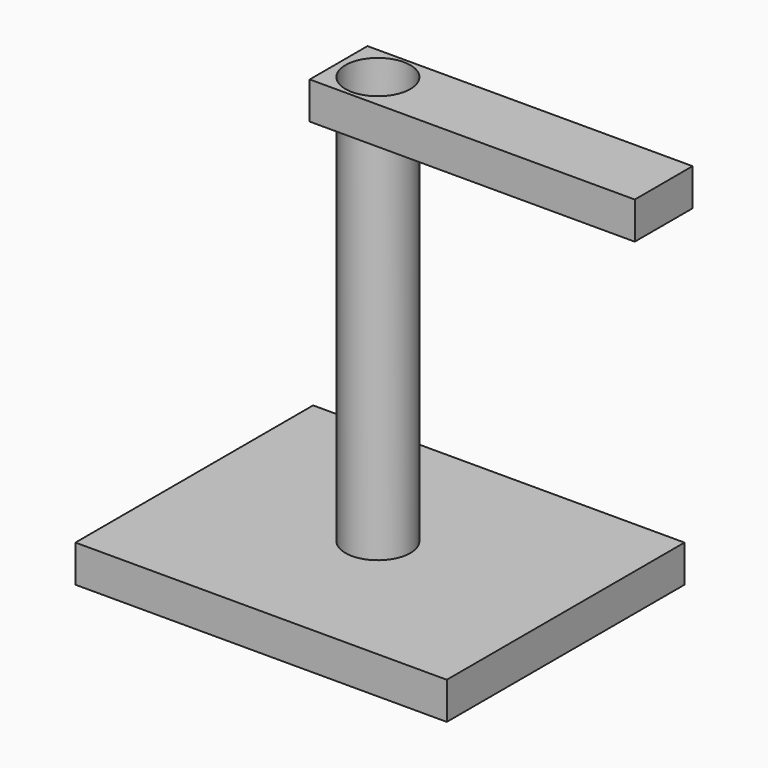
from build123d import *

# Parameters (mm, degrees)
F0_W     = 127
F0_H     = 101.6
F1_DEPTH = 12.7
F2_R     = 11.09274
F3_DEPTH = 127
F4_W     = 111.165965
F4_H     = 24.703549
F4_R     = 11.09274
F5_DEPTH = 12.7


with BuildPart() as f1:
    # F0 (on Top) → F1 (new body)
    with BuildSketch(Plane.XY):
        with Locations((0.957116, -0.31968)):
            Rectangle(F0_W, F0_H)
    extrude(amount=F1_DEPTH)


with BuildPart() as f3:
    # F2 (on face) → F3 (new body)
    with BuildSketch(Plane.XY.offset(12.7)):
        Circle(F2_R)
    extrude(amount=F3_DEPTH)


with BuildPart() as f5:
    # F4 (on face) → F5 (new body)
    with BuildSketch(Plane.XY.offset(139.7)):
        with Locations((42.217258, -0.092178)):
            Rectangle(F4_W, F4_H)
        Circle(F4_R, mode=Mode.SUBTRACT)
    extrude(amount=F5_DEPTH)


solid = Compound([f1.part, f3.part, f5.part])
